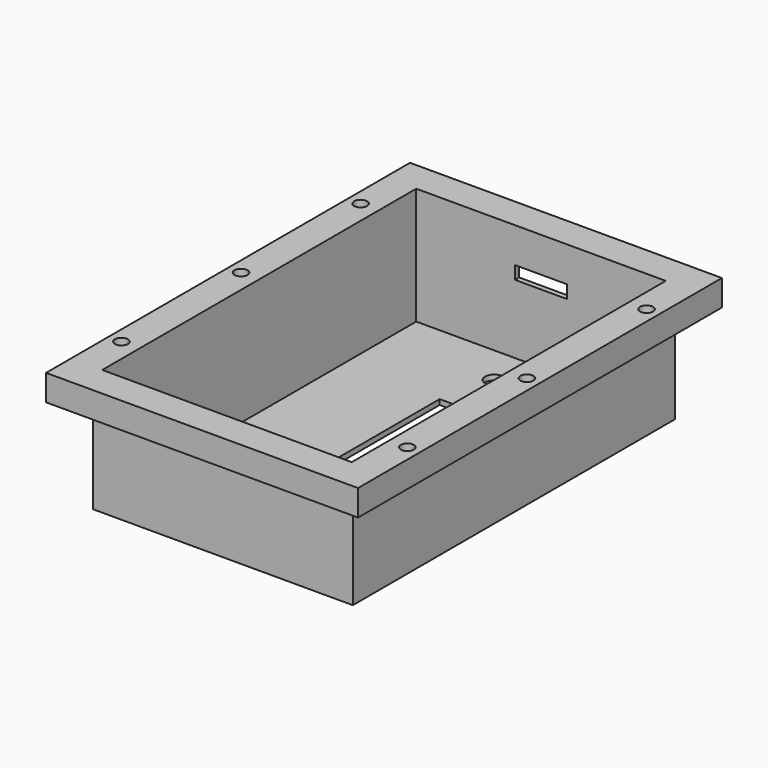
from build123d import *

# Parameters (mm, degrees)
F0_W      = 100
F0_H      = 155
F1_DEPTH  = 2
F2_W      = 100
F2_H      = 155
F2_W_2    = 96
F2_H_2    = 151
F3_DEPTH  = 45
F4_W      = 41
F4_H      = 81
F5_DEPTH  = 25
F6_R      = 3.5
F7_DEPTH  = 25
F8_W      = 10
F8_H      = 19
F9_DEPTH  = 25
F10_W     = 120
F10_H     = 175
F10_W_2   = 96
F10_H_2   = 151
F11_DEPTH = 10
F12_R     = 2.5
F13_DEPTH = 25
F14_W     = 20
F14_H     = 5
F15_DEPTH = 25
F16_R     = 1.5


with BuildPart() as f1:
    # F0 (on Top) → F1 (new body)
    with BuildSketch(Plane.XY):
        with Locations((3.314801, 2.740827)):
            Rectangle(F0_W, F0_H)
    extrude(amount=F1_DEPTH)

    # F2 (on face) → F3 (join)
    with BuildSketch(Plane.XY.offset(2)):
        with Locations((3.314801, 2.740827)):
            Rectangle(F2_W, F2_H)
        with Locations((3.314801, 2.740827)):
            Rectangle(F2_W_2, F2_H_2, mode=Mode.SUBTRACT)
    extrude(amount=F3_DEPTH)

    # F4 (on face) → F5 (cut)
    with BuildSketch(Plane(origin=(0, 0, 0), x_dir=(1, 0, 0), z_dir=(0, 0, -1))):
        with Locations((12.814801, -2.740827)):
            Rectangle(F4_W, F4_H)
    extrude(amount=-F5_DEPTH, mode=Mode.SUBTRACT)

    # F6 (on face) → F7 (cut)
    with BuildSketch(Plane(origin=(0, 0, 0), x_dir=(1, 0, 0), z_dir=(0, 0, -1))):
        with Locations((-2.685199, 44.759173)):
            Circle(F6_R)
        with Locations((27.314801, 44.759173)):
            Circle(F6_R)
        with Locations((27.314801, -63.240827)):
            Circle(F6_R)
        with Locations((12.314801, -63.240827)):
            Circle(F6_R)
        with Locations((-2.685199, -63.240827)):
            Circle(F6_R)
    extrude(amount=-F7_DEPTH, mode=Mode.SUBTRACT)

    # F8 (on face) → F9 (cut)
    with BuildSketch(Plane(origin=(0, 0, 0), x_dir=(1, 0, 0), z_dir=(0, 0, -1))):
        with Locations((46.314801, 60.259173)):
            Rectangle(F8_W, F8_H)
    extrude(amount=-F9_DEPTH, mode=Mode.SUBTRACT)

    # F10 (on face) → F11 (join)
    with BuildSketch(Plane.XY.offset(47)):
        with Locations((3.314801, 2.740827)):
            Rectangle(F10_W, F10_H)
        with Locations((3.314801, 2.740827)):
            Rectangle(F10_W_2, F10_H_2, mode=Mode.SUBTRACT)
    extrude(amount=-F11_DEPTH)

    # F12 (on face) → F13 (cut)
    with BuildSketch(Plane(origin=(0, 0, 37), x_dir=(1, 0, 0), z_dir=(0, 0, -1))):
        with Locations((-51.685199, -60.240827)):
            Circle(F12_R)
        with Locations((-51.685199, -2.740827)):
            Circle(F12_R)
        with Locations((-51.685199, 54.759173)):
            Circle(F12_R)
        with Locations((58.314801, 54.759173)):
            Circle(F12_R)
        with Locations((58.314801, -2.740827)):
            Circle(F12_R)
        with Locations((58.314801, -60.240827)):
            Circle(F12_R)
    extrude(amount=-F13_DEPTH, mode=Mode.SUBTRACT)

    # F14 (on face) → F15 (cut)
    with BuildSketch(Plane(origin=(0, 80.240827, 0), x_dir=(-1, 0, 0), z_dir=(0, 1, 0))):
        with Locations((-3.314801, 30.98563)):
            Rectangle(F14_W, F14_H)
    extrude(amount=-F15_DEPTH, mode=Mode.SUBTRACT)

    # F16
    f16_edges = [f1.edges().sort_by_distance(p)[0] for p in [
        (-46.685199, 2.740827, 37),
        (3.314801, 80.240827, 37),
        (3.314801, -74.759173, 37),
        (53.314801, 2.740827, 37),
    ]]
    fillet(f16_edges, radius=F16_R)


solid = f1.part
